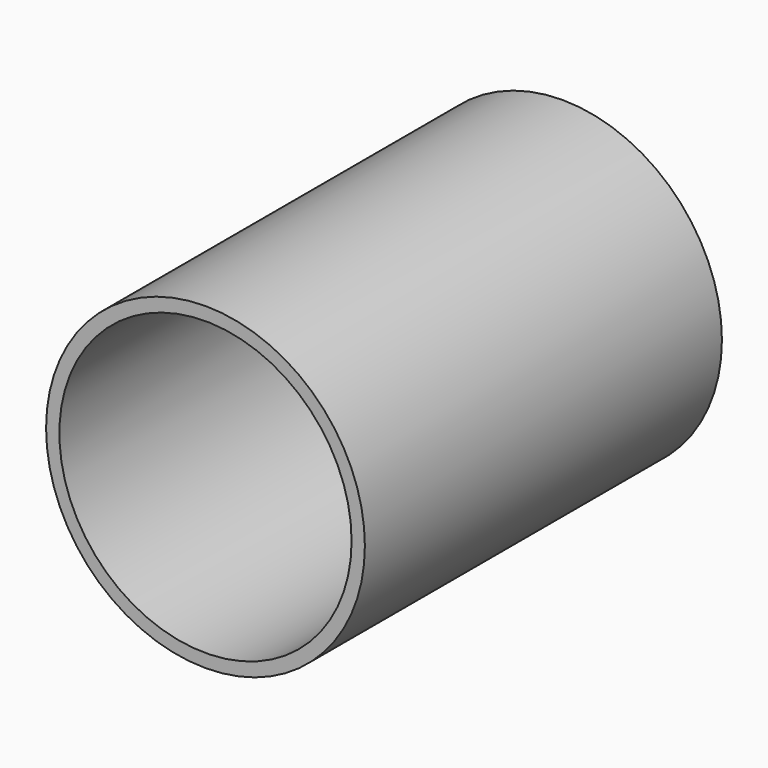
from build123d import *

# Parameters (mm, degrees)
F0_R     = 38.1
F0_R_2   = 34.925
F1_DEPTH = 106.68
F0_R_3   = 3.96875
F2_DEPTH = 3.175


with BuildPart() as f1:
    # F0 (on Front) → F1 (new body)
    with BuildSketch(Plane.XZ):
        Circle(F0_R)
        Circle(F0_R_2, mode=Mode.SUBTRACT)
    extrude(amount=F1_DEPTH)

    # F0 (on Front) → F2 (join)
    with BuildSketch(Plane.XZ):
        Circle(F0_R_2)
        with Locations((0, -9.525)):
            Circle(F0_R_3, mode=Mode.SUBTRACT)
        Circle(F0_R_3, mode=Mode.SUBTRACT)
        with Locations((0, 9.525)):
            Circle(F0_R_3, mode=Mode.SUBTRACT)
    extrude(amount=F2_DEPTH)


solid = f1.part
